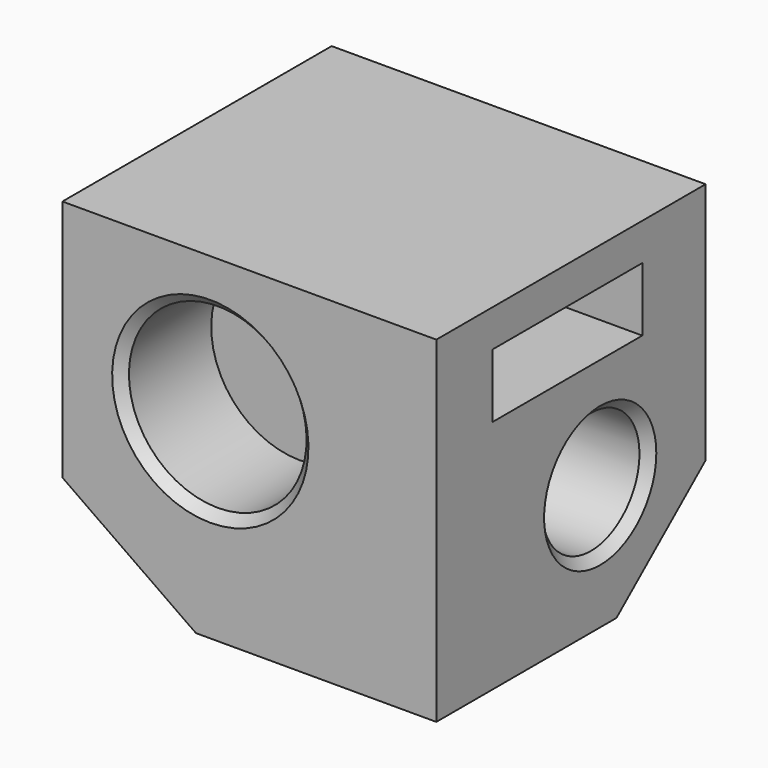
from build123d import *

# Parameters (mm, degrees)
PAD017_DEPTH    = 10
POCKET021_DEPTH = 12.5
SKETCH043_R     = 3.4
POCKET022_DEPTH = 9.5
SKETCH042_R     = 4.75
POCKET023_DEPTH = 6
SKETCH044_R     = 3.25
POCKET024_DEPTH = 9.5
CHAMFER003_SIZE = 0.5
SKETCH045_W     = 10
SKETCH045_H     = 3.416477
POCKET025_DEPTH = 5


with BuildPart() as part:
    # Sketch040 → Pad017 (new body, symmetric)
    with BuildSketch(Plane.YZ):
        Polygon((-6.020616, 5), (-6.020616, 0), (6.020616, 0), (11.979384, 5), (11.979384, 18), (-6.020616, 18), align=None)
    extrude(amount=PAD017_DEPTH, both=True)

    # Sketch041 → Pocket021 (cut, symmetric)
    with BuildSketch(Plane.XZ):
        Polygon((-2.85926, 0), (-10, 5), (-10, 0), align=None)
    extrude(amount=POCKET021_DEPTH, both=True, mode=Mode.SUBTRACT)

    # Sketch043 (on Face7 of Pocket021) → Pocket022 (cut)
    with BuildSketch(Plane.ZX.offset(11.979384)):
        with Locations((11.617009, -4.472668)):
            Circle(SKETCH043_R)
    extrude(amount=-POCKET022_DEPTH, mode=Mode.SUBTRACT)

    # Sketch042 (on Face5 of Pocket021) → Pocket023 (cut)
    with BuildSketch(Plane(origin=(0, -6.020616, 0), x_dir=(0, 0, -1), z_dir=(0, -1, 0))):
        with Locations((-10.693305, -2.090455)):
            Circle(SKETCH042_R)
    extrude(amount=-POCKET023_DEPTH, mode=Mode.SUBTRACT)

    # Sketch044 (on Face4 of Pocket023) → Pocket024 (cut)
    with BuildSketch(Plane.YZ.offset(10)):
        with Locations((4.93403, 6.679259)):
            Circle(SKETCH044_R)
    extrude(amount=-POCKET024_DEPTH, mode=Mode.SUBTRACT)

    # Chamfer003
    chamfer003_edges = [part.edges().sort_by_distance(p)[0] for p in [
        (-4.472668, 11.979384, 8.217009),
        (10, 1.68403, 6.679259),
        (-2.090455, -6.020616, 15.443305),
    ]]
    chamfer(chamfer003_edges, length=CHAMFER003_SIZE)

    # Sketch045 (on Face1 of Chamfer003) → Pocket025 (cut)
    with BuildSketch(Plane.YZ.offset(10)):
        with Locations((2.746655, 14.302369)):
            Rectangle(SKETCH045_W, SKETCH045_H)
    extrude(amount=-POCKET025_DEPTH, mode=Mode.SUBTRACT)


solid = part.part
